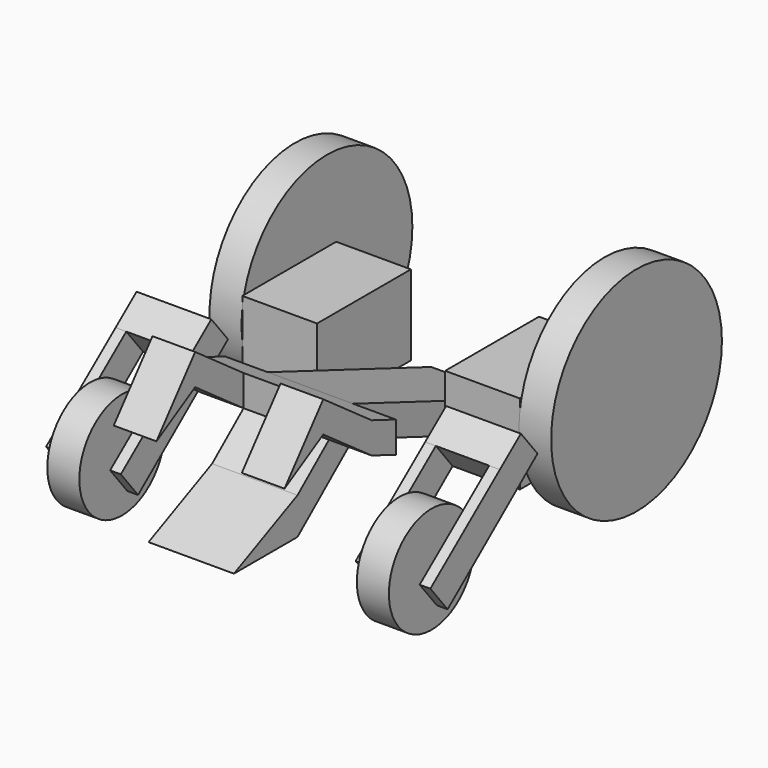
from build123d import *

# Parameters (mm, degrees)
F1_START = 65
F0_R     = 50
F1_DEPTH = 15
F0_R_2   = 25
F3_START = 55
F3_DEPTH = 35
F4_START = 30
F2_W     = 54.935564287
F2_H     = 37.570875138
F4_DEPTH = 35
F5_START = 60
F5_DEPTH = 25
F7_DEPTH = 20
F8_START = 20
F8_DEPTH = 20


with BuildPart() as f1:
    # F0 (on Right) → F1 (new body)
    with BuildSketch(Plane.YZ.offset(F1_START)):
        with Locations((60, 50)):
            Circle(F0_R)
    extrude(amount=F1_DEPTH)

    # F2 (on Right) → F4 (join)
    with BuildSketch(Plane.YZ.offset(F4_START)):
        with Locations((37.9155925475, 43.1249979883)):
            Rectangle(F2_W, F2_H)
    extrude(amount=F4_DEPTH)


with BuildPart() as f1b:
    # F0 (on Right) → F1, piece 2 (new body)
    with BuildSketch(Plane.YZ.offset(F1_START)):
        with Locations((-60, 25)):
            Circle(F0_R_2)
    extrude(amount=F1_DEPTH)


with BuildPart() as f3:
    # F2 (on Right) → F3 (new body)
    with BuildSketch(Plane.YZ.offset(F3_START)):
        Polygon((-32.5211317695, 58.1602781919), (-22.6783181411, 45.8567584343), (-10.4745284982, 55.7808180227), (-20.2387908943, 67.9861487181), align=None)
        Polygon((-73.2184275985, 25.6024487317), (-63.1153360009, 12.9735814407), (-22.6783181411, 45.8567584343), (-32.5211317695, 58.1602781919), align=None)
    extrude(amount=F3_DEPTH)

    # F2 (on Right) → F5 (cut)
    with BuildSketch(Plane.YZ.offset(F5_START)):
        Polygon((-73.2184275985, 25.6024487317), (-63.1153360009, 12.9735814407), (-22.6783181411, 45.8567584343), (-32.5211317695, 58.1602781919), align=None)
    extrude(amount=F5_DEPTH, mode=Mode.SUBTRACT)


with BuildPart() as f7:
    # F6 (on Right) → F7 (new body, symmetric)
    with BuildSketch(Plane.YZ):
        Polygon((-30.946408709, 47.3746586235), (64.7797659039, 10.6281582266), (64.7797659039, 25.1579713076), (-30.946408709, 61.9044717045), align=None)
        Polygon((-45.0797565281, 52.8000406921), (-30.946408709, 47.3746586235), (-30.946408709, 61.9044717045), (-45.0797565281, 67.3298537731), align=None)
        Polygon((-63.507810235, 20.1965682209), (-30.946408709, 47.3746586235), (-45.0797565281, 52.8000406921), (-63.507810235, 37.4186600967), (-100.7182970643, 20.1965682209), align=None)
    extrude(amount=F7_DEPTH, both=True)



with BuildPart() as f8:
    # F6 (on Right) → F8 (new body)
    with BuildSketch(Plane.YZ.offset(F8_START)):
        Polygon((-45.0797565281, 52.8000406921), (-30.946408709, 47.3746586235), (-30.946408709, 61.9044717045), (-45.0797565281, 67.3298537731), align=None)
        Polygon((-73.4306126833, 73.0000212789), (-45.0797565281, 52.8000406921), (-45.0797565281, 67.3298537731), (-73.4306126833, 87.5298343599), (-96.1112827063, 59.8877519369), align=None)
    extrude(amount=F8_DEPTH)


with BuildPart() as f7_1:
    add(f7.part)

    add(f8.part)  # F9 merges F8
    # F9: F8, F1b, F3, F1 across plane
    add(f8.part.mirror(Plane.YZ))
    add(f1b.part.mirror(Plane.YZ))
    add(f3.part.mirror(Plane.YZ))
    add(f1.part.mirror(Plane.YZ))


solid = Compound([f1.part, f1b.part, f3.part, f7_1.part])
